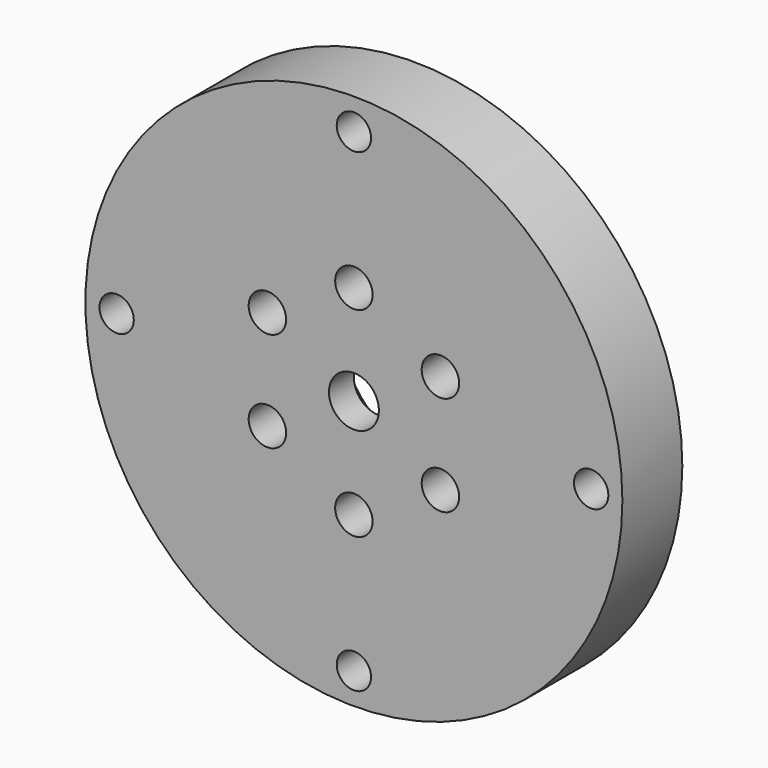
from build123d import *

# Parameters (mm, degrees)
SKETCH008_R           = 43
SKETCH008_R_2         = 4
PAD002_DEPTH          = 12
SKETCH009_R           = 11
POCKET002_DEPTH       = 7
SKETCH010_R           = 3
POCKET003_DEPTH       = 256.426858
POLARPATTERN001_COUNT = 6
SKETCH011_R           = 2.75
POCKET004_DEPTH       = 256.426858
POLARPATTERN002_COUNT = 4


with BuildPart() as part:
    # Sketch008 (on Face1 of ShapeBinder003) → Pad002 (new body)
    with BuildSketch(Plane.XZ.offset(8)):
        Circle(SKETCH008_R)
        Circle(SKETCH008_R_2, mode=Mode.SUBTRACT)
    extrude(amount=PAD002_DEPTH)

    # Sketch009 (on Face3 of Pad002) → Pocket002 (cut)
    with BuildSketch(Plane(origin=(0, -8, 0), x_dir=(1, 0, 0), z_dir=(0, 1, 0))):
        Circle(SKETCH009_R)
    extrude(amount=-POCKET002_DEPTH, mode=Mode.SUBTRACT)

    # Sketch010 (on Face2 of Pocket002) → Pocket003 (cut, through all)
    with BuildSketch(Plane(origin=(0, -8, 0), x_dir=(1, 0, 0), z_dir=(0, 1, 0))):
        with Locations((0, 16)):
            Circle(SKETCH010_R)
    pocket003 = extrude(amount=-POCKET003_DEPTH, mode=Mode.SUBTRACT)

    # PolarPattern001: Pocket003 ×6 about axis
    polarpattern001_axis = Axis((0, -8, 0), (0, 1, 0))
    for i in range(1, POLARPATTERN001_COUNT):
        add(pocket003.rotate(polarpattern001_axis, i * 360 / POLARPATTERN001_COUNT), mode=Mode.SUBTRACT)

    # Sketch011 (on Face2 of PolarPattern001) → Pocket004 (cut, through all)
    with BuildSketch(Plane(origin=(0, -8, 0), x_dir=(1, 0, 0), z_dir=(0, 1, 0))):
        with Locations((0, 38)):
            Circle(SKETCH011_R)
    pocket004 = extrude(amount=-POCKET004_DEPTH, mode=Mode.SUBTRACT)

    # PolarPattern002: Pocket004 ×4 about axis
    polarpattern002_axis = Axis((0, -8, 0), (0, 1, 0))
    for i in range(1, POLARPATTERN002_COUNT):
        add(pocket004.rotate(polarpattern002_axis, i * 360 / POLARPATTERN002_COUNT), mode=Mode.SUBTRACT)


with BuildPart() as part_1:
    # Body003 placement: moved
    add(part.part.moved(Location((0, -30, 0))))


solid = part_1.part
